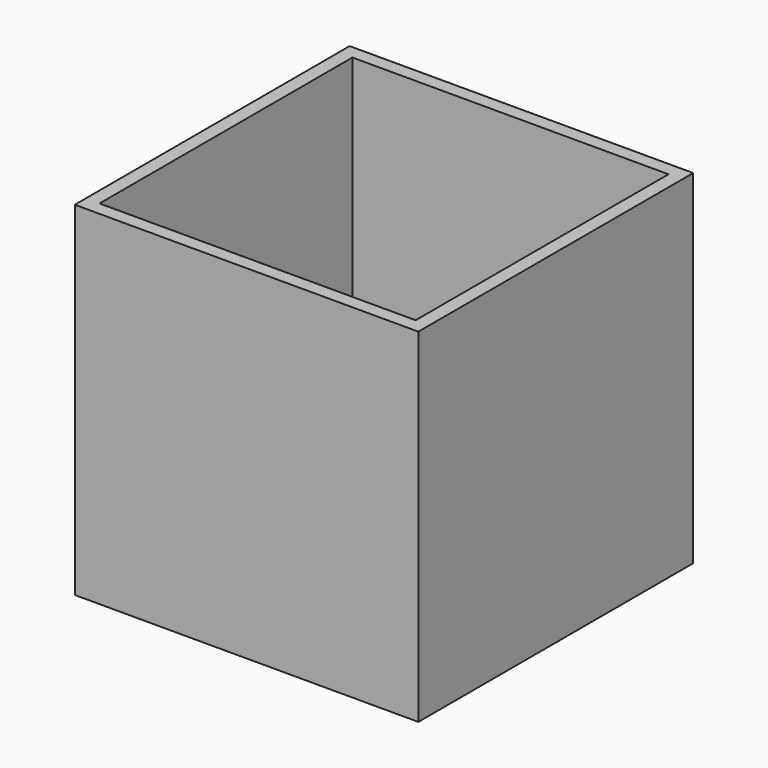
from build123d import *

# Parameters (mm, degrees)
F0_W     = 500
F0_H     = 500
F0_W_2   = 460
F0_H_2   = 460
F1_DEPTH = 500
F2_R     = 50
F3_DEPTH = 20


with BuildPart() as f1:
    # F0 (on Top) → F1 (new body)
    with BuildSketch(Plane.XY):
        Rectangle(F0_W, F0_H)
        Rectangle(F0_W_2, F0_H_2, mode=Mode.SUBTRACT)
    extrude(amount=F1_DEPTH)

    # F2 (on face) → F3 (cut, through all)
    with BuildSketch(Plane(origin=(-250, 0, 0), x_dir=(0, -1, 0), z_dir=(-1, 0, 0))):
        with Locations((0, 250)):
            Circle(F2_R)
    extrude(amount=-F3_DEPTH, mode=Mode.SUBTRACT)


solid = f1.part
